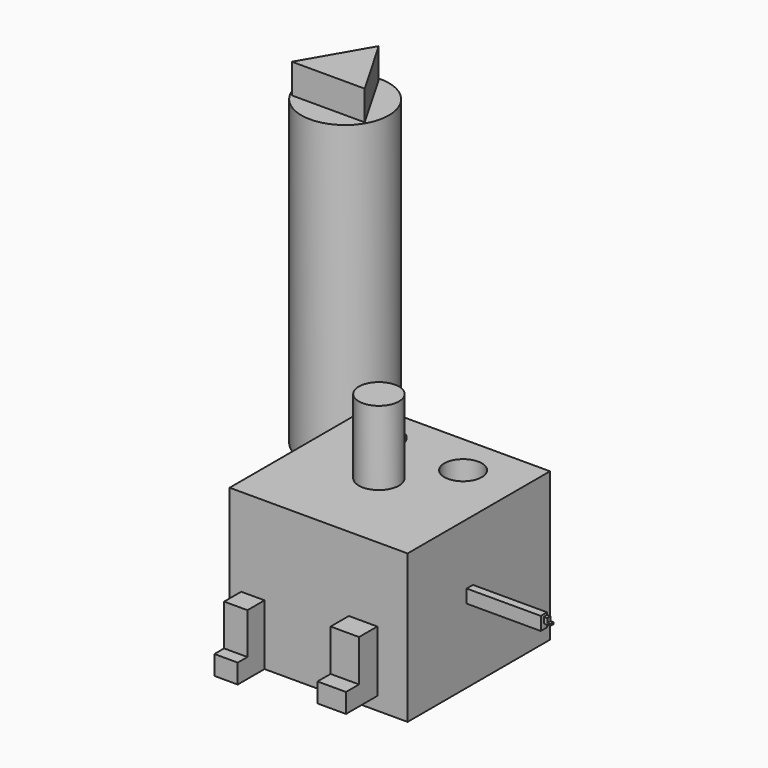
from build123d import *

# Parameters (mm, degrees)
F0_W      = 60
F0_H      = 60
F0_R      = 6.7062031478
F0_R_2    = 6.3258965971
F1_DEPTH  = 25
F2_DEPTH  = 1.1
F3_DEPTH  = 25
F4_DEPTH  = 25
F5_R      = 6.7742007843
F6_DEPTH  = 25
F7_W      = 9.5957089216
F7_H      = 20.6033345312
F8_DEPTH  = 7.7
F9_W      = 9.5957089216
F9_H      = 6.5357079729
F10_DEPTH = 5.5
F11_W     = 7.8699858859
F11_H     = 20.4023887403
F12_DEPTH = 7.2
F13_W     = 7.8699858859
F13_H     = 6.5085865557
F14_DEPTH = 4.1
F15_W     = 2.6549622416
F15_H     = 4.4827312231
F16_DEPTH = 25
F17_W     = 1.3844114728
F17_H     = 0.5452939076
F18_DEPTH = 2.2
F19_W     = 1.3844114728
F19_H     = 1.4300532639
F20_DEPTH = 1.2
F21_R     = 14.7548987497
F22_DEPTH = 102
F24_DEPTH = 10


with BuildPart() as f1:
    # F0 (on Top) → F1 (new body)
    with BuildSketch(Plane.XY):
        with Locations((2.6961664855, 9.4023707509)):
            Rectangle(F0_W, F0_H)
        with Locations((-13.8914240524, 26.5374090523)):
            Circle(F0_R, mode=Mode.SUBTRACT)
        with Locations((14.4662400708, 25.5793798715)):
            Circle(F0_R_2, mode=Mode.SUBTRACT)
    extrude(amount=-F1_DEPTH)

    # F2 (add): a face of the model
    f2_faces = [f1.faces().sort_by_distance(p)[0] for p in [
        (2.9553682193, 8.0658285207, -25),
    ]]
    extrude(f2_faces, amount=-F2_DEPTH)

    # F3 (add): a face of the model
    f3_faces = [f1.faces().sort_by_distance(p)[0] for p in [
        (2.6961664855, -20.5976292491, -12.5),
    ]]
    extrude(f3_faces, amount=-F3_DEPTH)

    # F0 (on Top) → F4 (join)
    with BuildSketch(Plane.XY):
        with Locations((2.6961664855, 9.4023707509)):
            Rectangle(F0_W, F0_H)
        with Locations((-13.8914240524, 26.5374090523)):
            Circle(F0_R, mode=Mode.SUBTRACT)
        with Locations((14.4662400708, 25.5793798715)):
            Circle(F0_R_2, mode=Mode.SUBTRACT)
    extrude(amount=F4_DEPTH)

    # F5 (on face) → F6 (join)
    with BuildSketch(Plane.XY.offset(25)):
        with Locations((0, 8.1716347486)):
            Circle(F5_R)
    extrude(amount=F6_DEPTH)

    # F7 (on face) → F8 (join)
    with BuildSketch(Plane.XZ.offset(20.5976292491)):
        with Locations((17.6809793338, -10.3016672656)):
            Rectangle(F7_W, F7_H)
    extrude(amount=F8_DEPTH)

    # F9 (on face) → F10 (join)
    with BuildSketch(Plane.XZ.offset(28.2976292491)):
        with Locations((17.6809793338, -17.3354805447)):
            Rectangle(F9_W, F9_H)
    extrude(amount=F10_DEPTH)

    # F11 (on face) → F12 (join)
    with BuildSketch(Plane.XZ.offset(20.5976292491)):
        with Locations((-19.4689254276, -14.7988056298)):
            Rectangle(F11_W, F11_H)
    extrude(amount=F12_DEPTH)

    # F13 (on face) → F14 (join)
    with BuildSketch(Plane.XZ.offset(27.7976292491)):
        with Locations((-19.4689254276, -21.7457067221)):
            Rectangle(F13_W, F13_H)
    extrude(amount=F14_DEPTH)

    # F15 (on face) → F16 (join)
    with BuildSketch(Plane.YZ.offset(32.6961664855)):
        with Locations((5.5994908325, 2.2413656116)):
            Rectangle(F15_W, F15_H)
    extrude(amount=F16_DEPTH)

    # F17 (on face) → F18 (join)
    with BuildSketch(Plane.YZ.offset(57.6961664855)):
        with Locations((6.2347662169, 1.9687186577)):
            Rectangle(F17_W, F17_H)
    extrude(amount=F18_DEPTH)

    # F19 (on face) → F20 (join)
    with BuildSketch(Plane.YZ.offset(57.6961664855)):
        with Locations((6.2347662169, 2.9563922435)):
            Rectangle(F19_W, F19_H)
    extrude(amount=F20_DEPTH)


with BuildPart() as f22:
    # F21 (on Top) → F22 (new body)
    with BuildSketch(Plane.XY):
        with Locations((-49.5301112533, 55.8531060815)):
            Circle(F21_R)
    extrude(amount=F22_DEPTH)

    # F23 (on face) → F24 (join)
    with BuildSketch(Plane.XY.offset(102)):
        Polygon((-61.8010059437, 48.7685017288), (-37.2592165628, 48.7685017288), (-49.5301112533, 70.0223147869), align=None)
    extrude(amount=F24_DEPTH)


solid = Compound([f1.part, f22.part])
